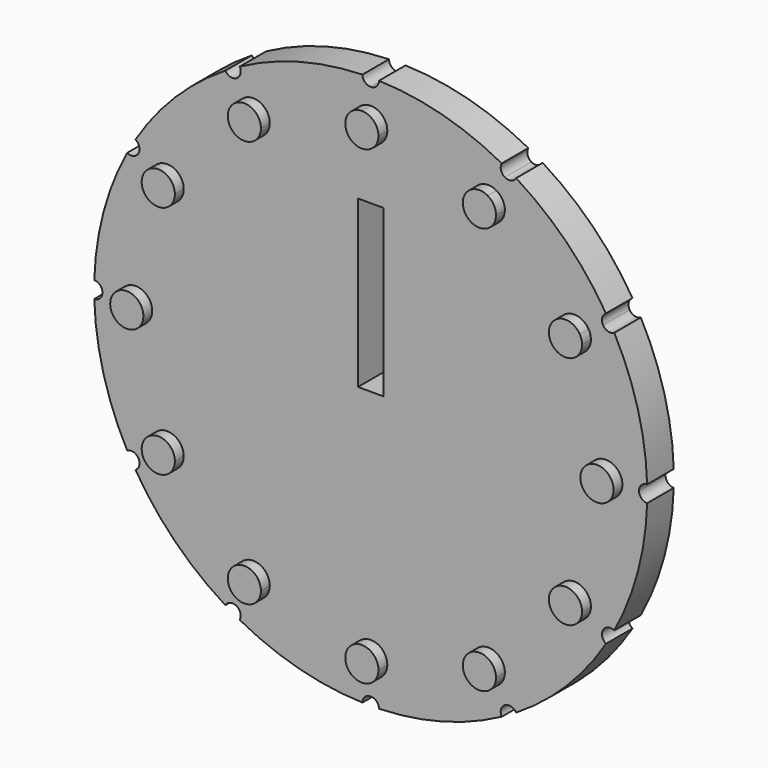
from build123d import *

# Parameters (mm, degrees)
F1_DEPTH = 6
F2_R     = 3
F3_DEPTH = 2


with BuildPart() as f1:
    # F0 (on Front) → F1 (new body)
    with BuildSketch(Plane.XZ):
        with BuildLine():
            Line((-42.0022320835, 24.25), (-2.3, 1.3279056191))
            Line((-2.3, 1.3279056191), (-2.3, 3.9837168574))
            Line((-2.3, 3.9837168574), (-24.25, 42.0022320835))
            ThreePointArc((-24.25, 42.0022320835), (-25.3773506768, 41.8495104065), (-26.2876419557, 42.5318689974))
            ThreePointArc((-26.2876419557, 42.5318689974), (-35.3553390593, 35.3553390593), (-42.5318689974, 26.2876419557))
            ThreePointArc((-42.5318689974, 26.2876419557), (-41.9966434633, 25.7402358449), (-41.8012701892, 25))
            ThreePointArc((-41.8012701892, 25), (-41.8523814498, 24.6117714323), (-42.0022320835, 24.25))
        make_face()
        with BuildLine():
            Line((-2.3, 30), (0, 30))
            Line((0, 30), (0, 48.5))
            ThreePointArc((0, 48.5), (-1.0526751636, 48.9314144863), (-1.4998312405, 49.9775))
            ThreePointArc((-1.4998312405, 49.9775), (-12.9409522551, 48.2962913145), (-23.6898580443, 44.0317002379))
            ThreePointArc((-23.6898580443, 44.0317002379), (-23.5482402173, 43.678620866), (-23.5, 43.3012701892))
            ThreePointArc((-23.5, 43.3012701892), (-23.7009618943, 42.5512701892), (-24.25, 42.0022320835))
            Line((-24.25, 42.0022320835), (-2.3, 3.9837168574))
            Line((-2.3, 3.9837168574), (-2.3, 30))
        make_face()
        with BuildLine():
            Line((0, 48.5), (0, 30))
            Line((0, 30), (2.3, 30))
            Line((2.3, 30), (2.3, 3.9837168574))
            Line((2.3, 3.9837168574), (24.25, 42.0022320835))
            ThreePointArc((24.25, 42.0022320835), (23.5540638096, 42.9021855701), (23.6898580443, 44.0317002379))
            ThreePointArc((23.6898580443, 44.0317002379), (12.9409522551, 48.2962913145), (1.4998312405, 49.9775))
            ThreePointArc((1.4998312405, 49.9775), (1.0526751636, 48.9314144863), (0, 48.5))
        make_face()
        with BuildLine():
            Line((2.3, 1.3279056191), (42.0022320835, 24.25))
            ThreePointArc((42.0022320835, 24.25), (41.8495104065, 25.3773506768), (42.5318689974, 26.2876419557))
            ThreePointArc((42.5318689974, 26.2876419557), (35.3553390593, 35.3553390593), (26.2876419557, 42.5318689974))
            ThreePointArc((26.2876419557, 42.5318689974), (25.3773506768, 41.8495104065), (24.25, 42.0022320835))
            Line((24.25, 42.0022320835), (2.3, 3.9837168574))
            Line((2.3, 3.9837168574), (2.3, 1.3279056191))
        make_face()
        with BuildLine():
            ThreePointArc((48.5, 0), (48.9314144863, 1.0526751636), (49.9775, 1.4998312405))
            ThreePointArc((49.9775, 1.4998312405), (48.2962913145, 12.9409522551), (44.0317002379, 23.6898580443))
            ThreePointArc((44.0317002379, 23.6898580443), (42.9021855701, 23.5540638096), (42.0022320835, 24.25))
            Line((42.0022320835, 24.25), (2.3, 1.3279056191))
            Line((2.3, 1.3279056191), (2.3, 0))
            Line((2.3, 0), (48.5, 0))
        make_face()
        with BuildLine():
            ThreePointArc((44.0317002379, -23.6898580443), (48.2962913145, -12.9409522551), (49.9775, -1.4998312405))
            ThreePointArc((49.9775, -1.4998312405), (48.9314144863, -1.0526751636), (48.5, 0))
            Line((48.5, 0), (2.3, 0))
            Line((2.3, 0), (0, 0))
            Line((0, 0), (42.0022320835, -24.25))
            ThreePointArc((42.0022320835, -24.25), (42.9021855701, -23.5540638096), (44.0317002379, -23.6898580443))
        make_face()
        with BuildLine():
            ThreePointArc((42.5318689974, -26.2876419557), (41.8495104065, -25.3773506768), (42.0022320835, -24.25))
            Line((42.0022320835, -24.25), (0, 0))
            Line((0, 0), (24.25, -42.0022320835))
            ThreePointArc((24.25, -42.0022320835), (25.3773506768, -41.8495104065), (26.2876419557, -42.5318689974))
            ThreePointArc((26.2876419557, -42.5318689974), (35.3553390593, -35.3553390593), (42.5318689974, -26.2876419557))
        make_face()
        with BuildLine():
            Line((24.25, -42.0022320835), (0, 0))
            Line((0, 0), (0, -48.5))
            ThreePointArc((0, -48.5), (1.0526751636, -48.9314144863), (1.4998312405, -49.9775))
            ThreePointArc((1.4998312405, -49.9775), (12.9409522551, -48.2962913145), (23.6898580443, -44.0317002379))
            ThreePointArc((23.6898580443, -44.0317002379), (23.5540638096, -42.9021855701), (24.25, -42.0022320835))
        make_face()
        with BuildLine():
            Line((0, -48.5), (0, 0))
            Line((0, 0), (-24.25, -42.0022320835))
            ThreePointArc((-24.25, -42.0022320835), (-23.7009618943, -42.5512701892), (-23.5, -43.3012701892))
            ThreePointArc((-23.5, -43.3012701892), (-23.5482402173, -43.678620866), (-23.6898580443, -44.0317002379))
            ThreePointArc((-23.6898580443, -44.0317002379), (-12.9409522551, -48.2962913145), (-1.4998312405, -49.9775))
            ThreePointArc((-1.4998312405, -49.9775), (-1.0526751636, -48.9314144863), (0, -48.5))
        make_face()
        with BuildLine():
            Line((-24.25, -42.0022320835), (0, 0))
            Line((0, 0), (-42.0022320835, -24.25))
            ThreePointArc((-42.0022320835, -24.25), (-41.8523814498, -24.6117714323), (-41.8012701892, -25))
            ThreePointArc((-41.8012701892, -25), (-41.9966434633, -25.7402358449), (-42.5318689974, -26.2876419557))
            ThreePointArc((-42.5318689974, -26.2876419557), (-35.3553390593, -35.3553390593), (-26.2876419557, -42.5318689974))
            ThreePointArc((-26.2876419557, -42.5318689974), (-25.3773506768, -41.8495104065), (-24.25, -42.0022320835))
        make_face()
        with BuildLine():
            Line((-42.0022320835, -24.25), (0, 0))
            Line((0, 0), (-2.3, 0))
            Line((-2.3, 0), (-48.5, 0))
            ThreePointArc((-48.5, 0), (-48.9314144863, -1.0526751636), (-49.9775, -1.4998312405))
            ThreePointArc((-49.9775, -1.4998312405), (-48.2962913145, -12.9409522551), (-44.0317002379, -23.6898580443))
            ThreePointArc((-44.0317002379, -23.6898580443), (-42.9021855701, -23.5540638096), (-42.0022320835, -24.25))
        make_face()
        with BuildLine():
            Line((-48.5, 0), (-2.3, 0))
            Line((-2.3, 0), (-2.3, 1.3279056191))
            Line((-2.3, 1.3279056191), (-42.0022320835, 24.25))
            ThreePointArc((-42.0022320835, 24.25), (-42.9021855701, 23.5540638096), (-44.0317002379, 23.6898580443))
            ThreePointArc((-44.0317002379, 23.6898580443), (-48.2962913145, 12.9409522551), (-49.9775, 1.4998312405))
            ThreePointArc((-49.9775, 1.4998312405), (-48.9314144863, 1.0526751636), (-48.5, 0))
        make_face()
    extrude(amount=F1_DEPTH)

    # F2 (on face) → F3 (join)
    with BuildSketch(Plane.XZ.offset(6)):
        with BuildLine():
            ThreePointArc((3, 42.5), (2.1213203436, 44.6213203436), (0, 45.5))
            ThreePointArc((0, 45.5), (-2.1213203436, 40.3786796564), (3, 42.5))
        make_face()
        with BuildLine():
            ThreePointArc((24.25, 36.8060796608), (23.8480762114, 38.3060796608), (22.75, 39.4041558722))
            ThreePointArc((22.75, 39.4041558722), (18.6519237886, 35.3060796608), (24.25, 36.8060796608))
        make_face()
        with BuildLine():
            ThreePointArc((39.8060796608, 21.25), (39.7038571397, 22.0264571353), (39.4041558722, 22.75))
            ThreePointArc((39.4041558722, 22.75), (33.908302182, 20.4735428647), (39.8060796608, 21.25))
        make_face()
        with Locations((42.5, 0)):
            Circle(F2_R)
        with BuildLine():
            ThreePointArc((39.8060796608, -21.25), (33.908302182, -20.4735428647), (39.4041558722, -22.75))
            ThreePointArc((39.4041558722, -22.75), (39.7038571397, -22.0264571353), (39.8060796608, -21.25))
        make_face()
        with BuildLine():
            ThreePointArc((24.25, -36.8060796608), (18.6519237886, -35.3060796608), (22.75, -39.4041558722))
            ThreePointArc((22.75, -39.4041558722), (23.8480762114, -38.3060796608), (24.25, -36.8060796608))
        make_face()
        with BuildLine():
            ThreePointArc((3, -42.5), (-2.1213203436, -40.3786796564), (0, -45.5))
            ThreePointArc((0, -45.5), (2.1213203436, -44.6213203436), (3, -42.5))
        make_face()
        with BuildLine():
            ThreePointArc((-18.25, -36.8060796608), (-22.75, -34.2080034495), (-22.75, -39.4041558722))
            ThreePointArc((-22.75, -39.4041558722), (-19.75, -39.4041558722), (-18.25, -36.8060796608))
        make_face()
        with BuildLine():
            ThreePointArc((-33.8060796608, -21.25), (-37.5825367961, -18.3522225211), (-39.4041558722, -22.75))
            ThreePointArc((-39.4041558722, -22.75), (-36.0296225255, -24.1477774789), (-33.8060796608, -21.25))
        make_face()
        with BuildLine():
            ThreePointArc((-39.5, 0), (-42.5, 3), (-45.5, 0))
            ThreePointArc((-45.5, 0), (-42.5, -3), (-39.5, 0))
        make_face()
        with BuildLine():
            ThreePointArc((-33.8060796608, 21.25), (-36.0296225255, 24.1477774789), (-39.4041558722, 22.75))
            ThreePointArc((-39.4041558722, 22.75), (-37.5825367961, 18.3522225211), (-33.8060796608, 21.25))
        make_face()
        with BuildLine():
            ThreePointArc((-18.25, 36.8060796608), (-19.75, 39.4041558722), (-22.75, 39.4041558722))
            ThreePointArc((-22.75, 39.4041558722), (-22.75, 34.2080034495), (-18.25, 36.8060796608))
        make_face()
    extrude(amount=F3_DEPTH)


solid = f1.part
